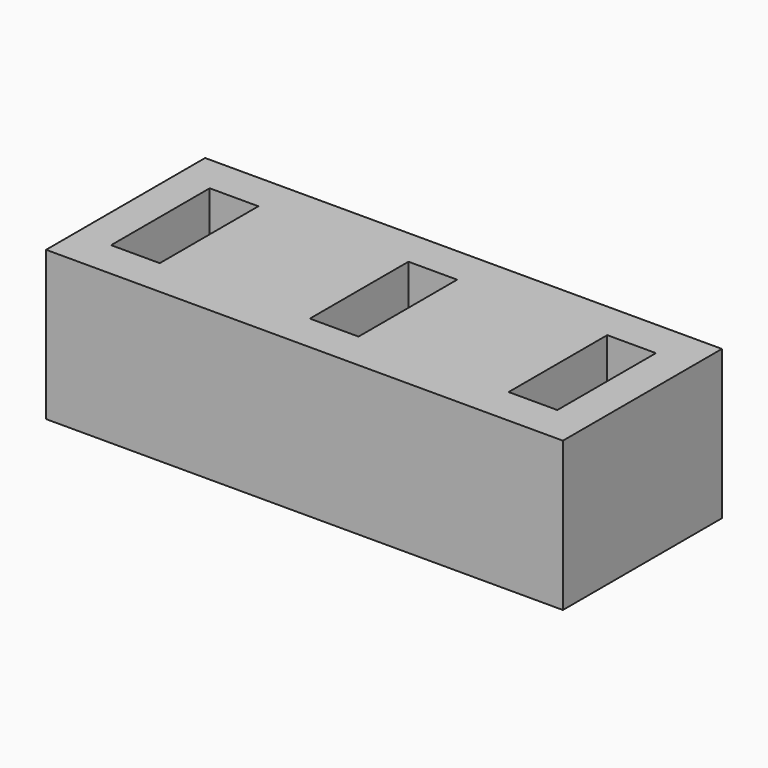
from build123d import *

# Parameters (mm, degrees)
BOX002_W     = 4.9
BOX002_H     = 12.4
BOX002_DEPTH = 25
BOX003_W     = 4.9
BOX003_H     = 12.4
BOX003_DEPTH = 25
BOX001_W     = 4.9
BOX001_H     = 12.4
BOX001_DEPTH = 25
BOX_W        = 52
BOX_H        = 20
BOX_DEPTH    = 15


with BuildPart() as cube002:
    # Box002 → Box002 (new body)
    with BuildSketch(Plane(origin=(23.5, 3.8, -2), x_dir=(1, 0, 0), z_dir=(0, 0, 1))):
        with Locations((2.45, 6.2)):
            Rectangle(BOX002_W, BOX002_H)
    extrude(amount=BOX002_DEPTH)


with BuildPart() as cube003:
    # Box003 → Box003 (new body)
    with BuildSketch(Plane(origin=(43.5, 3.8, -2), x_dir=(1, 0, 0), z_dir=(0, 0, 1))):
        with Locations((2.45, 6.2)):
            Rectangle(BOX003_W, BOX003_H)
    extrude(amount=BOX003_DEPTH)


with BuildPart() as fusion:
    # Box001 → Box001 (new body)
    with BuildSketch(Plane(origin=(3.5, 3.8, -2), x_dir=(1, 0, 0), z_dir=(0, 0, 1))):
        with Locations((2.45, 6.2)):
            Rectangle(BOX001_W, BOX001_H)
    extrude(amount=BOX001_DEPTH)

    # Fusion: union Cube002, Cube003
    add(cube002.part)
    add(cube003.part)


with BuildPart() as cut:
    # Box → Box (new body)
    with BuildSketch(Plane.XY):
        with Locations((26, 10)):
            Rectangle(BOX_W, BOX_H)
    extrude(amount=BOX_DEPTH)

    # Cut: cut Fusion
    add(fusion.part, mode=Mode.SUBTRACT)


solid = cut.part
